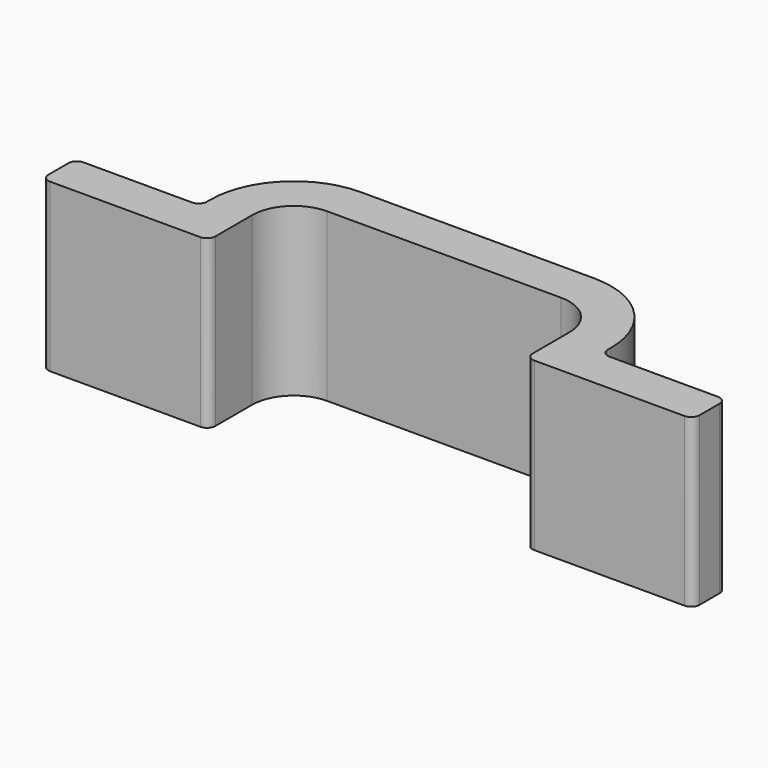
from build123d import *

# Parameters (mm, degrees)
F1_DEPTH = 5.08


with BuildPart() as f1:
    # F0 (on Top) → F1 (new body)
    with BuildSketch(Plane.XY):
        with BuildLine():
            ThreePointArc((-48.433347, 7.849631), (-48.061372, 8.747657), (-47.163347, 9.119631))
            Line((-47.163347, 9.119631), (-40.051347, 9.119631))
            ThreePointArc((-40.051347, 9.119631), (-39.153321, 8.747657), (-38.781347, 7.849631))
            Line((-38.781347, 7.849631), (-38.781347, 6.452631))
            ThreePointArc((-38.781347, 6.452631), (-38.706952, 6.273026), (-38.527347, 6.198631))
            Line((-38.527347, 6.198631), (-33.955347, 6.198631))
            ThreePointArc((-33.955347, 6.198631), (-33.775742, 6.273026), (-33.701347, 6.452631))
            Line((-33.701347, 6.452631), (-33.701347, 7.214631))
            ThreePointArc((-33.701347, 7.214631), (-33.775742, 7.394236), (-33.955347, 7.468631))
            Line((-33.955347, 7.468631), (-37.257347, 7.468631))
            ThreePointArc((-37.257347, 7.468631), (-37.436952, 7.543026), (-37.511347, 7.722631))
            Line((-37.511347, 7.722631), (-37.511347, 7.849631))
            ThreePointArc((-37.511347, 7.849631), (-38.255295, 9.645682), (-40.051347, 10.389631))
            Line((-40.051347, 10.389631), (-47.163347, 10.389631))
            ThreePointArc((-47.163347, 10.389631), (-48.959398, 9.645682), (-49.703347, 7.849631))
            Line((-49.703347, 7.849631), (-49.703347, 7.722631))
            ThreePointArc((-49.703347, 7.722631), (-49.777742, 7.543026), (-49.957347, 7.468631))
            Line((-49.957347, 7.468631), (-53.259347, 7.468631))
            ThreePointArc((-53.259347, 7.468631), (-53.438952, 7.394236), (-53.513347, 7.214631))
            Line((-53.513347, 7.214631), (-53.513347, 6.452631))
            ThreePointArc((-53.513347, 6.452631), (-53.438952, 6.273026), (-53.259347, 6.198631))
            Line((-53.259347, 6.198631), (-48.687347, 6.198631))
            ThreePointArc((-48.687347, 6.198631), (-48.507742, 6.273026), (-48.433347, 6.452631))
            Line((-48.433347, 6.452631), (-48.433347, 7.849631))
        make_face()
    extrude(amount=F1_DEPTH)


solid = f1.part
